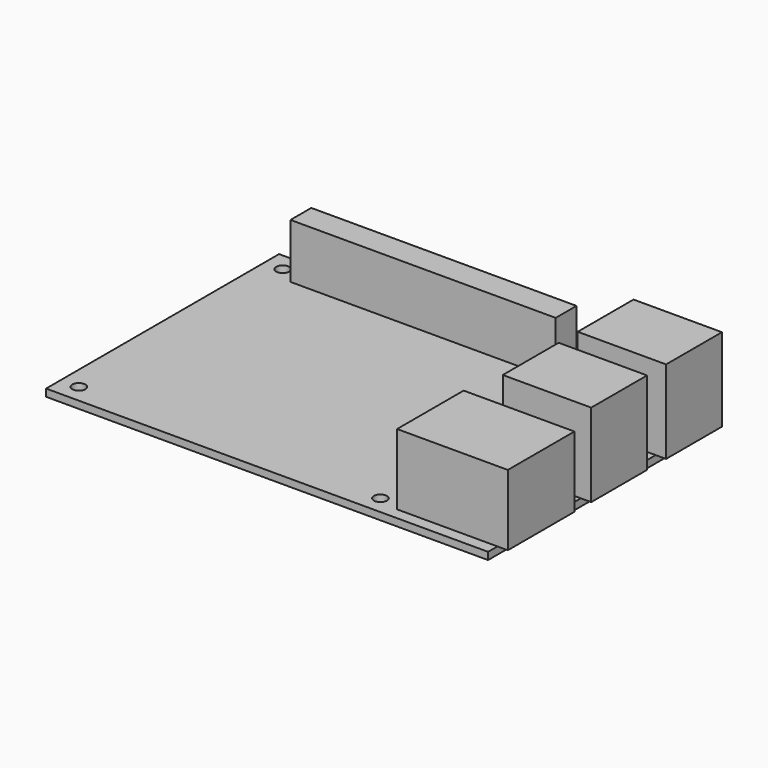
from build123d import *

# Parameters (mm, degrees)
SKETCH_W     = 85
SKETCH_H     = 56
PAD_DEPTH    = 1.4
SKETCH001_R  = 1.25
POCKET_DEPTH = 204.998249
SKETCH002_W  = 17
SKETCH002_H  = 13.42
PAD001_DEPTH = 16
SKETCH003_W  = 21.3
SKETCH003_H  = 16
PAD002_DEPTH = 13.6
SKETCH004_W  = 51
SKETCH004_H  = 5
PAD003_DEPTH = 10.5
SKETCH005_W  = 51
SKETCH005_H  = 5
PAD004_DEPTH = 2.5


with BuildPart() as part:
    # Sketch → Pad (new body)
    with BuildSketch(Plane.XY):
        Rectangle(SKETCH_W, SKETCH_H)
    extrude(amount=PAD_DEPTH)

    # Sketch001 → Pocket (cut, through all)
    with BuildSketch(Plane.XY.offset(1.4)):
        with Locations((-39, 24.5)):
            Circle(SKETCH001_R)
        with Locations((19, 24.5)):
            Circle(SKETCH001_R)
    pocket = extrude(amount=-POCKET_DEPTH, mode=Mode.SUBTRACT)

    # Mirrored: Pocket across Sketch001 H_Axis
    add(pocket.mirror(Plane(origin=(0, 0, 1.4), x_dir=(0, 0, 1), z_dir=(0, 1, 0))), mode=Mode.SUBTRACT)

    # Sketch002 → Pad001 (new body)
    with BuildSketch(Plane.XY.offset(1.4)):
        with Locations((36, 19)):
            Rectangle(SKETCH002_W, SKETCH002_H)
        with Locations((36, 1)):
            Rectangle(SKETCH002_W, SKETCH002_H)
    extrude(amount=PAD001_DEPTH)

    # Sketch003 → Pad002 (new body)
    with BuildSketch(Plane.XY.offset(1.4)):
        with Locations((33.85, -17.75)):
            Rectangle(SKETCH003_W, SKETCH003_H)
    extrude(amount=PAD002_DEPTH)

    # Sketch004 → Pad003 (new body)
    with BuildSketch(Plane.XY.offset(1.4)):
        with Locations((-10, 24.5)):
            Rectangle(SKETCH004_W, SKETCH004_H)
    extrude(amount=PAD003_DEPTH)

    # Sketch005 → Pad004 (new body)
    with BuildSketch(Plane(origin=(0, 0, 0), x_dir=(1, 0, 0), z_dir=(0, 0, -1))):
        with Locations((-10, -24.5)):
            Rectangle(SKETCH005_W, SKETCH005_H)
    extrude(amount=PAD004_DEPTH)


solid = part.part
